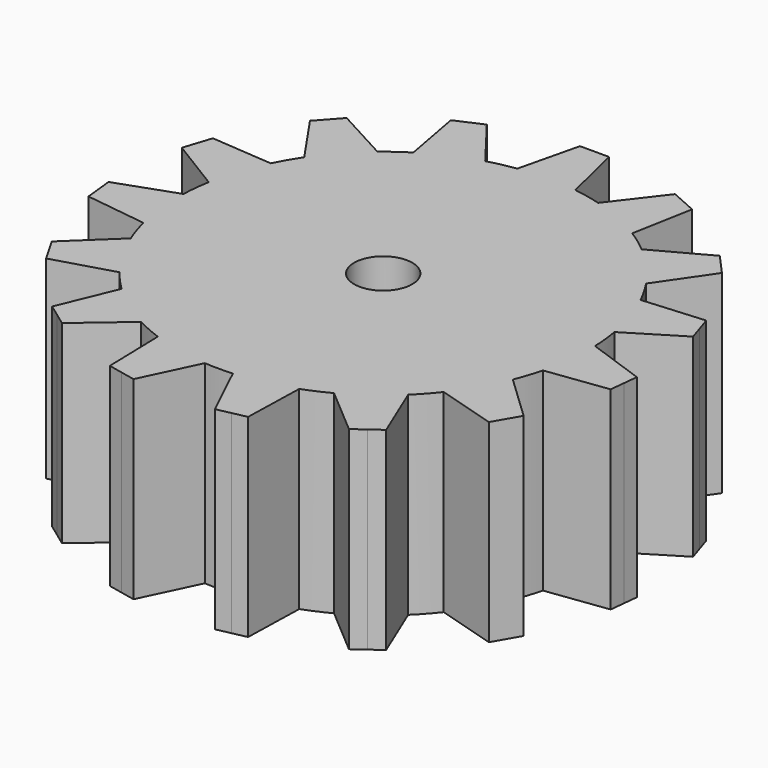
from build123d import *

# Parameters (mm, degrees)
F1_DEPTH = 10
F2_R     = 1.5
F3_DEPTH = 10.001


with BuildPart() as f1:
    # F0 (on Top) → F1 (new body)
    with BuildSketch(Plane.XY):
        with BuildLine():
            ThreePointArc((10.305245, -2.586998), (10.544758, -1.303342), (10.625, 0))
            ThreePointArc((10.625, 0), (10.623229, 0.193975), (10.617917, 0.387885))
            ThreePointArc((10.617917, 0.387885), (10.566795, 1.110615), (10.466536, 1.82818))
            ThreePointArc((10.466536, 1.82818), (10.104975, 3.283306), (9.542183, 4.673047))
            ThreePointArc((9.542183, 4.673047), (9.20152, 5.3125), (8.818069, 5.927249))
            ThreePointArc((8.818069, 5.927249), (7.895914, 7.109513), (6.816518, 8.150196))
            ThreePointArc((6.816518, 8.150196), (6.245218, 8.595806), (5.644877, 9.001444))
            ThreePointArc((5.644877, 9.001444), (4.321577, 9.70642), (2.912216, 10.218103))
            ThreePointArc((2.912216, 10.218103), (2.209062, 10.392818), (1.495635, 10.519206))
            ThreePointArc((1.495635, 10.519206), (0, 10.625), (-1.495635, 10.519206))
            ThreePointArc((-1.495635, 10.519206), (-2.209062, 10.392818), (-2.912216, 10.218103))
            ThreePointArc((-2.912216, 10.218103), (-4.321577, 9.70642), (-5.644877, 9.001444))
            ThreePointArc((-5.644877, 9.001444), (-6.245218, 8.595806), (-6.816518, 8.150196))
            ThreePointArc((-6.816518, 8.150196), (-7.895914, 7.109513), (-8.818069, 5.927249))
            ThreePointArc((-8.818069, 5.927249), (-9.20152, 5.3125), (-9.542183, 4.673047))
            ThreePointArc((-9.542183, 4.673047), (-10.104975, 3.283306), (-10.466536, 1.82818))
            ThreePointArc((-10.466536, 1.82818), (-10.566795, 1.110615), (-10.617917, 0.387885))
            ThreePointArc((-10.617917, 0.387885), (-10.566795, -1.110615), (-10.305245, -2.586998))
            ThreePointArc((-10.305245, -2.586998), (-10.104975, -3.283306), (-9.857717, -3.964345))
            ThreePointArc((-9.857717, -3.964345), (-9.20152, -5.3125), (-8.362082, -6.554861))
            ThreePointArc((-8.362082, -6.554861), (-7.895914, -7.109513), (-7.393029, -7.631104))
            ThreePointArc((-7.393029, -7.631104), (-6.245218, -8.595806), (-4.97304, -9.389329))
            ThreePointArc((-4.97304, -9.389329), (-4.321577, -9.70642), (-3.650018, -9.978376))
            ThreePointArc((-3.650018, -9.978376), (-2.209062, -10.392818), (-0.724114, -10.600296))
            ThreePointArc((-0.724114, -10.600296), (0, -10.625), (0.724114, -10.600296))
            ThreePointArc((0.724114, -10.600296), (2.209062, -10.392818), (3.650018, -9.978376))
            ThreePointArc((3.650018, -9.978376), (4.321577, -9.70642), (4.97304, -9.389329))
            ThreePointArc((4.97304, -9.389329), (6.245218, -8.595806), (7.393029, -7.631104))
            ThreePointArc((7.393029, -7.631104), (7.895914, -7.109513), (8.362082, -6.554861))
            ThreePointArc((8.362082, -6.554861), (9.20152, -5.3125), (9.857717, -3.964345))
            ThreePointArc((9.857717, -3.964345), (10.104975, -3.283306), (10.305245, -2.586998))
        make_face()
        with BuildLine():
            ThreePointArc((10.617917, 0.387885), (10.623229, 0.193975), (10.625, 0))
            ThreePointArc((10.625, 0), (10.544758, -1.303342), (10.305245, -2.586998))
            Line((10.305245, -2.586998), (13.471964, -2.170092))
            Line((13.471964, -2.170092), (13.550361, -1.4242))
            Line((13.550361, -1.4242), (13.628757, -0.678309))
            Line((13.628757, -0.678309), (10.617917, 0.387885))
        make_face()
        with BuildLine():
            ThreePointArc((9.542183, 4.673047), (10.104975, 3.283306), (10.466536, 1.82818))
            Line((10.466536, 1.82818), (13.189908, 3.497064))
            Line((13.189908, 3.497064), (12.958145, 4.210357))
            Line((12.958145, 4.210357), (12.726382, 4.923649))
            Line((12.726382, 4.923649), (9.542183, 4.673047))
        make_face()
        with BuildLine():
            Line((12.174596, -6.162981), (9.857717, -3.964345))
            ThreePointArc((9.857717, -3.964345), (9.20152, -5.3125), (8.362082, -6.554861))
            Line((8.362082, -6.554861), (11.424596, -7.462019))
            Line((11.424596, -7.462019), (11.799596, -6.8125))
            Line((11.799596, -6.8125), (12.174596, -6.162981))
        make_face()
        with BuildLine():
            ThreePointArc((6.816518, 8.150196), (7.895914, 7.109513), (8.818069, 5.927249))
            Line((8.818069, 5.927249), (10.627196, 8.559546))
            Line((10.627196, 8.559546), (10.125348, 9.116905))
            Line((10.125348, 9.116905), (9.6235, 9.674263))
            Line((9.6235, 9.674263), (6.816518, 8.150196))
        make_face()
        with BuildLine():
            Line((8.615337, -10.582018), (7.393029, -7.631104))
            ThreePointArc((7.393029, -7.631104), (6.245218, -8.595806), (4.97304, -9.389329))
            Line((4.97304, -9.389329), (7.401811, -11.463695))
            Line((7.401811, -11.463695), (8.008574, -11.022857))
            Line((8.008574, -11.022857), (8.615337, -10.582018))
        make_face()
        with BuildLine():
            ThreePointArc((2.912216, 10.218103), (4.321577, 9.70642), (5.644877, 9.001444))
            Line((5.644877, 9.001444), (6.226946, 12.142004))
            Line((6.226946, 12.142004), (5.541787, 12.447057))
            Line((5.541787, 12.447057), (4.856628, 12.752109))
            Line((4.856628, 12.752109), (2.912216, 10.218103))
        make_face()
        with BuildLine():
            Line((3.566407, -13.171327), (3.650018, -9.978376))
            ThreePointArc((3.650018, -9.978376), (2.209062, -10.392818), (0.724114, -10.600296))
            Line((0.724114, -10.600296), (2.099186, -13.483195))
            Line((2.099186, -13.483195), (2.832797, -13.327261))
            Line((2.832797, -13.327261), (3.566407, -13.171327))
        make_face()
        with BuildLine():
            ThreePointArc((-1.495635, 10.519206), (0, 10.625), (1.495635, 10.519206))
            Line((1.495635, 10.519206), (0.75, 13.625))
            Line((0.75, 13.625), (0, 13.625))
            Line((0, 13.625), (-0.75, 13.625))
            Line((-0.75, 13.625), (-1.495635, 10.519206))
        make_face()
        with BuildLine():
            Line((-2.099186, -13.483195), (-0.724114, -10.600296))
            ThreePointArc((-0.724114, -10.600296), (-2.209062, -10.392818), (-3.650018, -9.978376))
            Line((-3.650018, -9.978376), (-3.566407, -13.171327))
            Line((-3.566407, -13.171327), (-2.832797, -13.327261))
            Line((-2.832797, -13.327261), (-2.099186, -13.483195))
        make_face()
        with BuildLine():
            ThreePointArc((-5.644877, 9.001444), (-4.321577, 9.70642), (-2.912216, 10.218103))
            Line((-2.912216, 10.218103), (-4.856628, 12.752109))
            Line((-4.856628, 12.752109), (-5.541787, 12.447057))
            Line((-5.541787, 12.447057), (-6.226946, 12.142004))
            Line((-6.226946, 12.142004), (-5.644877, 9.001444))
        make_face()
        with BuildLine():
            Line((-7.401811, -11.463695), (-4.97304, -9.389329))
            ThreePointArc((-4.97304, -9.389329), (-6.245218, -8.595806), (-7.393029, -7.631104))
            Line((-7.393029, -7.631104), (-8.615337, -10.582018))
            Line((-8.615337, -10.582018), (-8.008574, -11.022857))
            Line((-8.008574, -11.022857), (-7.401811, -11.463695))
        make_face()
        with BuildLine():
            ThreePointArc((-8.818069, 5.927249), (-7.895914, 7.109513), (-6.816518, 8.150196))
            Line((-6.816518, 8.150196), (-9.6235, 9.674263))
            Line((-9.6235, 9.674263), (-10.125348, 9.116905))
            Line((-10.125348, 9.116905), (-10.627196, 8.559546))
            Line((-10.627196, 8.559546), (-8.818069, 5.927249))
        make_face()
        with BuildLine():
            Line((-11.424596, -7.462019), (-8.362082, -6.554861))
            ThreePointArc((-8.362082, -6.554861), (-9.20152, -5.3125), (-9.857717, -3.964345))
            Line((-9.857717, -3.964345), (-12.174596, -6.162981))
            Line((-12.174596, -6.162981), (-11.799596, -6.8125))
            Line((-11.799596, -6.8125), (-11.424596, -7.462019))
        make_face()
        with BuildLine():
            ThreePointArc((-10.466536, 1.82818), (-10.104975, 3.283306), (-9.542183, 4.673047))
            Line((-9.542183, 4.673047), (-12.726382, 4.923649))
            Line((-12.726382, 4.923649), (-12.958145, 4.210357))
            Line((-12.958145, 4.210357), (-13.189908, 3.497064))
            Line((-13.189908, 3.497064), (-10.466536, 1.82818))
        make_face()
        with BuildLine():
            Line((-13.471964, -2.170092), (-10.305245, -2.586998))
            ThreePointArc((-10.305245, -2.586998), (-10.566795, -1.110615), (-10.617917, 0.387885))
            Line((-10.617917, 0.387885), (-13.628757, -0.678309))
            Line((-13.628757, -0.678309), (-13.550361, -1.4242))
            Line((-13.550361, -1.4242), (-13.471964, -2.170092))
        make_face()
    extrude(amount=F1_DEPTH)

    # F2 (on face) → F3 (cut, through all)
    with BuildSketch(Plane.XY.offset(10)):
        Circle(F2_R)
    extrude(amount=-F3_DEPTH, mode=Mode.SUBTRACT)


solid = f1.part
